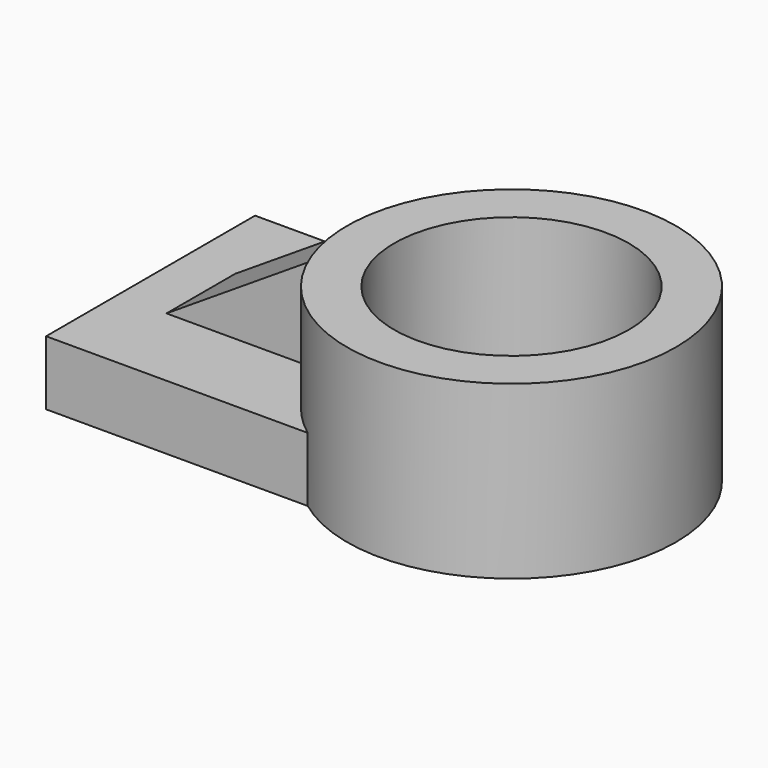
from build123d import *

# Parameters (mm, degrees)
F0_R          = 48.683007
F0_R_2        = 34.725428
F1_DEPTH      = 50.8
F3_DEPTH      = 19.05
F5_DEPTH      = 12.7
F5_DEPTH_BACK = 12.7


with BuildPart() as f1:
    # F0 (on Top) → F1 (new body)
    with BuildSketch(Plane.XY):
        Circle(F0_R)
        Circle(F0_R_2, mode=Mode.SUBTRACT)
    extrude(amount=F1_DEPTH)

    # F2 (on Top) → F3 (join)
    with BuildSketch(Plane.XY):
        with BuildLine():
            ThreePointArc((-12.464464, -39.019189), (-40.947813, -1.066114), (-14.478001, 38.317718))
            Line((-14.478001, 38.317718), (-106.571145, 38.317718))
            Line((-106.571145, 38.317718), (-106.571145, -39.019189))
            Line((-106.571145, -39.019189), (-12.464464, -39.019189))
        make_face()
    extrude(amount=F3_DEPTH)

    # F4 (on Front) → F5 (join, two sides)
    with BuildSketch(Plane.XZ) as f5_sk:
        Polygon((-46.427574, 16.981715), (-46.427574, 48.332572), (-95.195569, 16.981715), align=None)
    extrude(amount=F5_DEPTH)
    extrude(f5_sk.sketch, amount=-F5_DEPTH_BACK)


solid = f1.part
